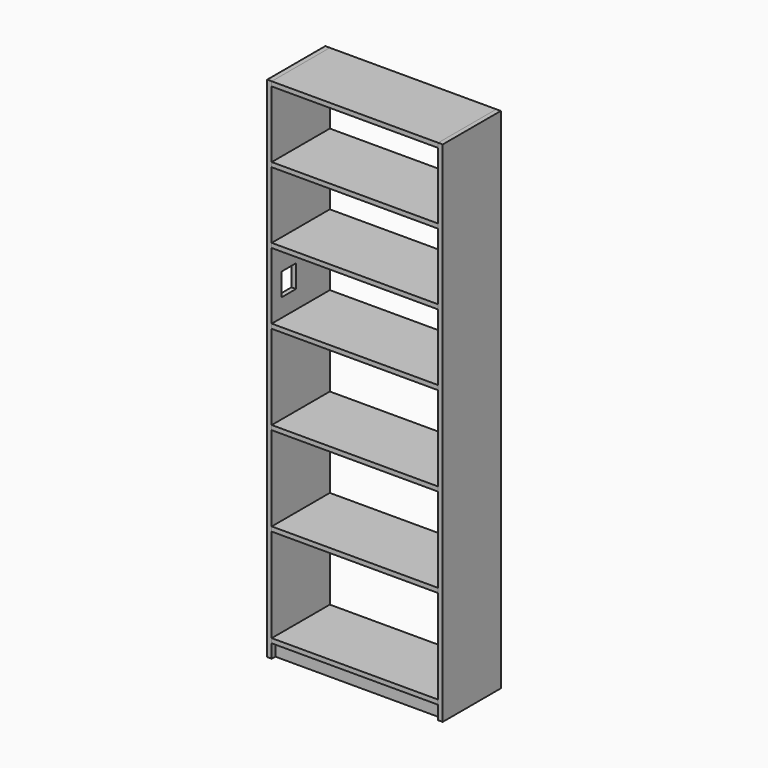
from build123d import *

# Parameters (mm, degrees)
F0_W     = 19.05
F0_H     = 2133.6
F1_DEPTH = 304.8
F2_W     = 698.5
F2_H     = 19.05
F3_DEPTH = 304.8
F4_W     = 698.5
F4_H     = 19.05
F5_DEPTH = 304.8
F6_W     = 698.5
F6_H     = 19.05
F7_DEPTH = 57.15
F8_W     = 76.2
F8_H     = 95.25
F9_DEPTH = 25.4


with BuildPart() as f1:
    # F0 (on Front) → F1 (new body)
    with BuildSketch(Plane.XZ):
        with Locations((-909.834336, -15.634368)):
            Rectangle(F0_W, F0_H)
        with Locations((-192.284336, -15.634368)):
            Rectangle(F0_W, F0_H)
    extrude(amount=F1_DEPTH)

    # F8 (on face) → F9 (cut)
    with BuildSketch(Plane.YZ.offset(-900.309336)):
        with Locations((-215.9, 279.640632)):
            Rectangle(F8_W, F8_H)
    extrude(amount=-F9_DEPTH, mode=Mode.SUBTRACT)


with BuildPart() as f3:
    # F2 (on Front) → F3 (new body)
    with BuildSketch(Plane.XZ):
        with Locations((-551.059336, -603.009368)):
            Rectangle(F2_W, F2_H)
        with Locations((-551.059336, -228.359368)):
            Rectangle(F2_W, F2_H)
        with Locations((-551.059336, 146.290632)):
            Rectangle(F2_W, F2_H)
        with Locations((-551.059336, 444.740632)):
            Rectangle(F2_W, F2_H)
        with Locations((-551.059336, 743.190632)):
            Rectangle(F2_W, F2_H)
        with Locations((-551.059336, 1041.640632)):
            Rectangle(F2_W, F2_H)
    extrude(amount=F3_DEPTH)


with BuildPart() as f5:
    # F4 (on face) → F5 (new body)
    with BuildSketch(Plane.XZ.offset(304.8)):
        with Locations((-551.059336, -1015.759368)):
            Rectangle(F4_W, F4_H)
    extrude(amount=-F5_DEPTH)


with BuildPart() as f7:
    # F6 (on face) → F7 (new body, through all)
    with BuildSketch(Plane(origin=(0, 0, -1025.284368), x_dir=(1, 0, 0), z_dir=(0, 0, -1))):
        with Locations((-551.059336, 276.225)):
            Rectangle(F6_W, F6_H)
    extrude(amount=F7_DEPTH)


solid = Compound([f1.part, f3.part, f5.part, f7.part])
